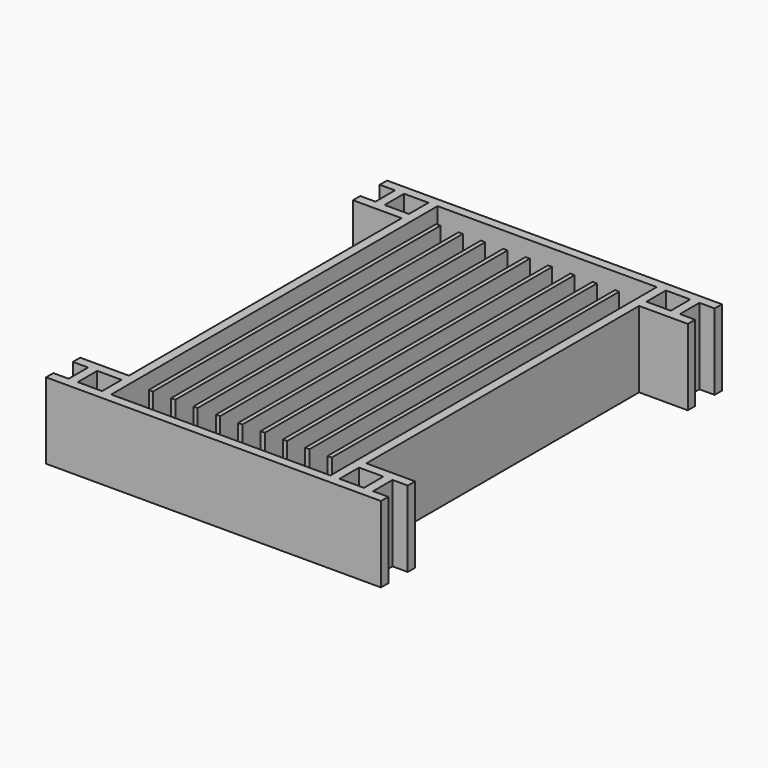
from build123d import *

# Parameters (mm, degrees)
F1_DEPTH = 25
F0_W     = 8
F0_H     = 8


with BuildPart() as f1:
    # F0 (on Top) → F1 (new body)
    with BuildSketch(Plane.XY):
        Polygon((22.72, 0), (22.72, 59), (21.32, 59), (21.32, 0), (21.32, -59), (22.72, -59), align=None)
    extrude(amount=F1_DEPTH)


with BuildPart() as f1b:
    # F0 (on Top) → F1, piece 2 (new body)
    with BuildSketch(Plane.XY):
        Polygon((8.04, 0), (8.04, 59), (6.64, 59), (6.64, 0), (6.64, -59), (8.04, -59), align=None)
    extrude(amount=F1_DEPTH)


with BuildPart() as f1c:
    # F0 (on Top) → F1, piece 3 (new body)
    with BuildSketch(Plane.XY):
        Polygon((0.7, 0), (0.7, 59), (-0.7, 59), (-0.7, 0), (-0.7, -59), (0.7, -59), align=None)
    extrude(amount=F1_DEPTH)


with BuildPart() as f1d:
    # F0 (on Top) → F1, piece 4 (new body)
    with BuildSketch(Plane.XY):
        Polygon((-13.98, 0), (-13.98, 59), (-15.38, 59), (-15.38, 0), (-15.38, -59), (-13.98, -59), align=None)
    extrude(amount=F1_DEPTH)


with BuildPart() as f1e:
    # F0 (on Top) → F1, piece 5 (new body)
    with BuildSketch(Plane.XY):
        Polygon((-21.32, 0), (-21.32, 59), (-22.72, 59), (-22.72, 0), (-22.72, -59), (-21.32, -59), align=None)
    extrude(amount=F1_DEPTH)


with BuildPart() as f1f:
    # F0 (on Top) → F1, piece 6 (new body)
    with BuildSketch(Plane.XY):
        Polygon((55, 70), (-55, 70), (-55, 67), (-50, 67), (-50, 59), (-55, 59), (-55, 56), (-50, 56), (-39, 56), (-39, 0), (-39, -56), (-50, -56), (-55, -56), (-55, -59), (-50, -59), (-50, -67), (-55, -67), (-55, -70), (55, -70), (55, -67), (50, -67), (50, -59), (55, -59), (55, -56), (50, -56), (39, -56), (39, 0), (39, 56), (50, 56), (55, 56), (55, 59), (50, 59), (50, 67), (55, 67), align=None)
        with Locations((-43, -63)):
            Rectangle(F0_W, F0_H, mode=Mode.SUBTRACT)
        with Locations((43, -63)):
            Rectangle(F0_W, F0_H, mode=Mode.SUBTRACT)
        with Locations((-43, 63)):
            Rectangle(F0_W, F0_H, mode=Mode.SUBTRACT)
        Polygon((-36, 0), (-36, 67), (36, 67), (36, 0), (36, -67), (-36, -67), align=None, mode=Mode.SUBTRACT)
        with Locations((43, 63)):
            Rectangle(F0_W, F0_H, mode=Mode.SUBTRACT)
    extrude(amount=F1_DEPTH)


with BuildPart() as f1g:
    # F0 (on Top) → F1, piece 7 (new body)
    with BuildSketch(Plane.XY):
        Polygon((-28.66, 59), (-30.06, 59), (-30.06, 0), (-30.06, -59), (-28.66, -59), (-28.66, 0), align=None)
    extrude(amount=F1_DEPTH)


with BuildPart() as f1h:
    # F0 (on Top) → F1, piece 8 (new body)
    with BuildSketch(Plane.XY):
        Polygon((30.06, 0), (30.06, 59), (28.66, 59), (28.66, 0), (28.66, -59), (30.06, -59), align=None)
    extrude(amount=F1_DEPTH)


with BuildPart() as f1i:
    # F0 (on Top) → F1, piece 9 (new body)
    with BuildSketch(Plane.XY):
        Polygon((15.38, 0), (15.38, 59), (13.98, 59), (13.98, 0), (13.98, -59), (15.38, -59), align=None)
    extrude(amount=F1_DEPTH)


with BuildPart() as f1j:
    # F0 (on Top) → F1, piece 10 (new body)
    with BuildSketch(Plane.XY):
        Polygon((-6.64, 0), (-6.64, 59), (-8.04, 59), (-8.04, 0), (-8.04, -59), (-6.64, -59), align=None)
    extrude(amount=F1_DEPTH)


solid = Compound([f1.part, f1b.part, f1c.part, f1d.part, f1e.part, f1f.part, f1g.part, f1h.part, f1i.part, f1j.part])
